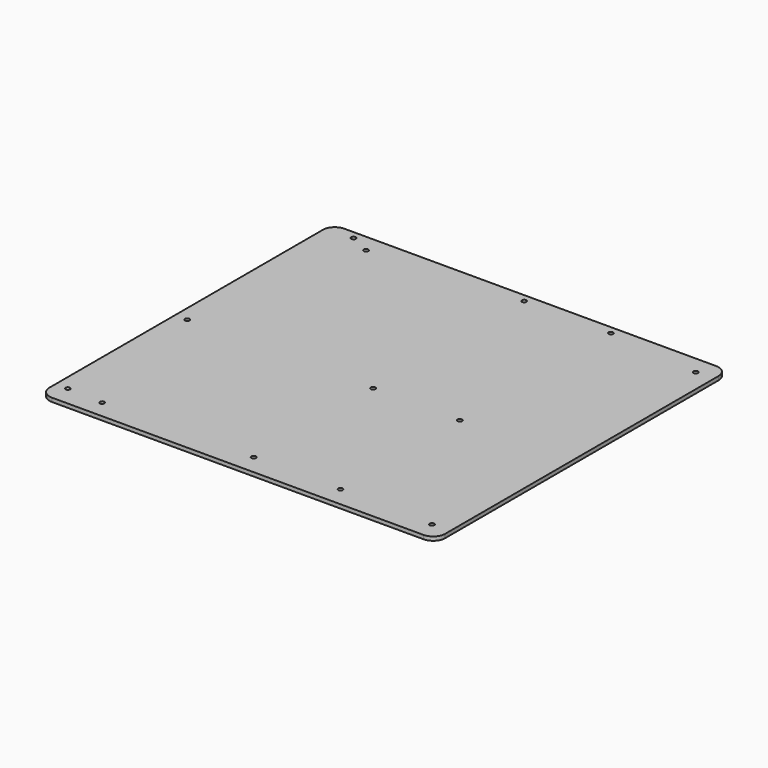
from build123d import *

# Parameters (mm, degrees)
F1_DEPTH = 3.2
F3_D     = 3.7973
F5_D     = 3.7973


with BuildPart() as f1:
    # F0 (on Top) → F1 (new body)
    with BuildSketch(Plane.XY):
        with BuildLine():
            ThreePointArc((165, 137.5), (162.0710678119, 144.5710678119), (155, 147.5))
            Line((155, 147.5), (-155, 147.5))
            ThreePointArc((-155, 147.5), (-162.0710678119, 144.5710678119), (-165, 137.5))
            Line((-165, 137.5), (-165, -147.5))
            ThreePointArc((-165, -147.5), (-162.0710678119, -154.5710678119), (-155, -157.5))
            Line((-155, -157.5), (155, -157.5))
            ThreePointArc((155, -157.5), (162.0710678119, -154.5710678119), (165, -147.5))
            Line((165, -147.5), (165, 137.5))
        make_face()
    extrude(amount=F1_DEPTH)

    # F3 (through all)
    with Locations(Plane.XY.offset(3.2)):
        with Locations((-125, 132.5), (150, 132.5), (150, -142.5), (-125, -142.5)):
            Hole(F3_D / 2)

    # F5 (through all)
    with Locations(Plane.XY.offset(3.2)):
        with Locations((-142.14, 140.95), (0.1, 140.95), (72.49, 140.95), (-154.84, -16.53), (0.1, -16.53), (72.49, -16.53), (72.49, -140.99), (0.1, -140.99), (-154.84, -140.99)):
            Hole(F5_D / 2)


solid = f1.part
